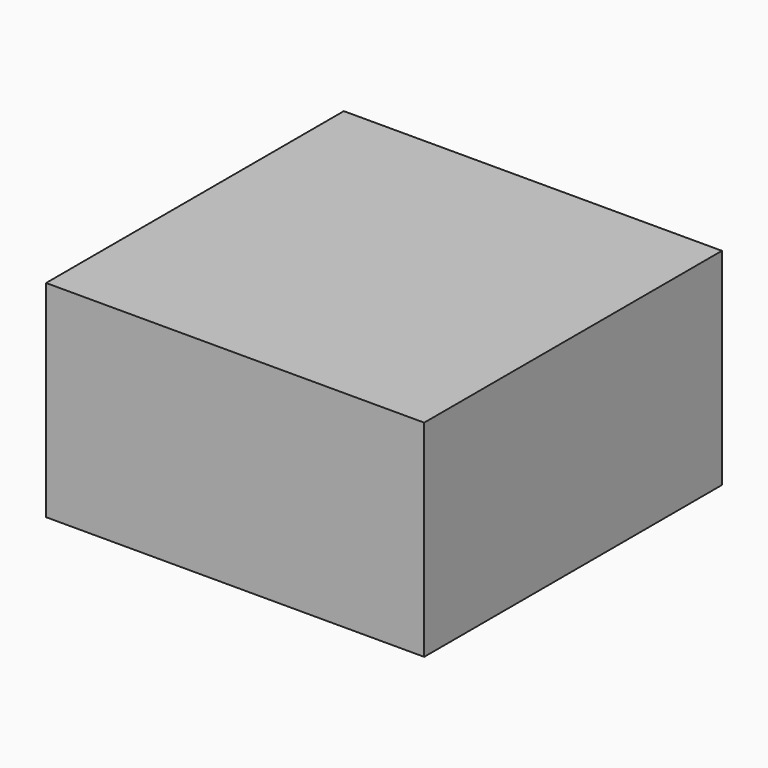
from build123d import *

# Parameters (mm, degrees)
F1_R     = 9.8246353949
F2_DEPTH = 76.2
F0_W     = 69.8630958796
F0_H     = 137.5265717506


with BuildPart() as f2:
    # F1 (on Top) → F2 (new body)
    with BuildSketch(Plane.XY):
        with Locations((54.2640089989, 0)):
            Circle(F1_R)
    extrude(amount=F2_DEPTH)


with BuildPart() as f2b:
    # F0 (on Top) → F2, piece 2 (new body)
    with BuildSketch(Plane.XY):
        with Locations((34.9315479398, 0)):
            Rectangle(F0_W, F0_H)
        with Locations((-34.9315479398, 0)):
            Rectangle(F0_W, F0_H)
    extrude(amount=F2_DEPTH)


solid = Compound([f2.part, f2b.part])
